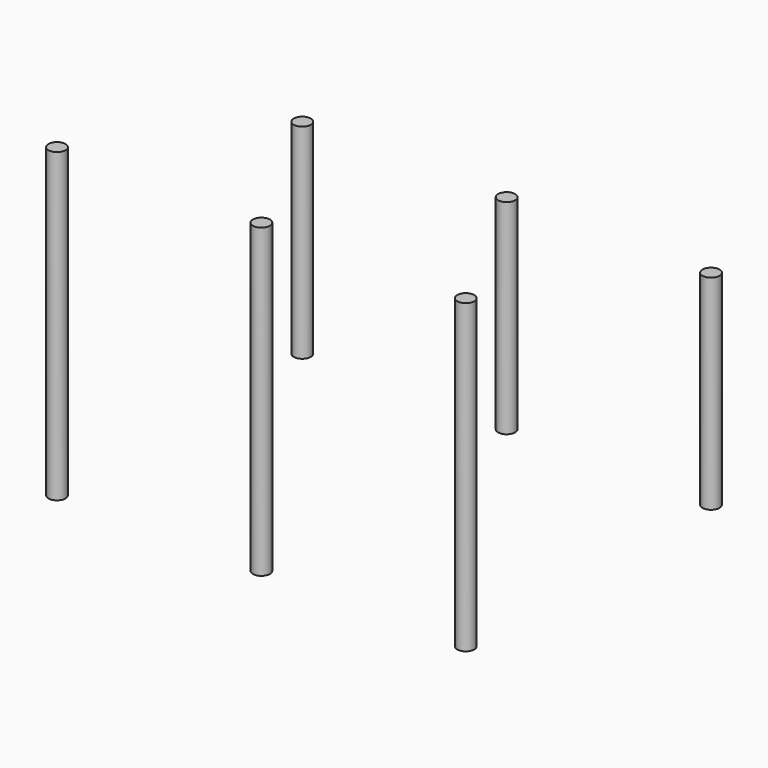
from build123d import *

# Parameters (mm, degrees)
F0_R     = 101.6
F1_DEPTH = 3657.6
F5_DEPTH = 2438.4


with BuildPart() as f1:
    # F0 (on Top) → F1 (new body)
    with BuildSketch(Plane.XY):
        with Locations((-105.736218, -40.360045)):
            Circle(F0_R)
    extrude(amount=F1_DEPTH)


with BuildPart() as f2_1:
    # F2: copy of F1
    add(f1.part.moved(Location((2438.4, 0, 0))))


with BuildPart() as f3_1:
    # F3: copy of F2_1
    add(f2_1.part.moved(Location((2438.4, 0, 0))))


with BuildPart() as f4_1:
    # F4: copy of F1
    add(f1.part.moved(Location((0, 3657.6, 0))))


with BuildPart() as f5:
    # F0 (on Top) → F5 (new body)
    with BuildSketch(Plane.XY):
        with Locations((-105.736218, -40.360045)):
            Circle(F0_R)
    extrude(amount=F5_DEPTH)


with BuildPart() as f5_1:
    # F7: moved
    add(f5.part.moved(Location((0, 3657.6, 0))))


with BuildPart() as f8_1:
    # F8: copy of F5
    add(f5_1.part.moved(Location((2438.4, 0, 0))))


with BuildPart() as f9_1:
    # F9: copy of F8_1
    add(f8_1.part.moved(Location((2438.4, 0, 0))))


solid = Compound([f1.part, f2_1.part, f3_1.part, f5_1.part, f8_1.part, f9_1.part])
